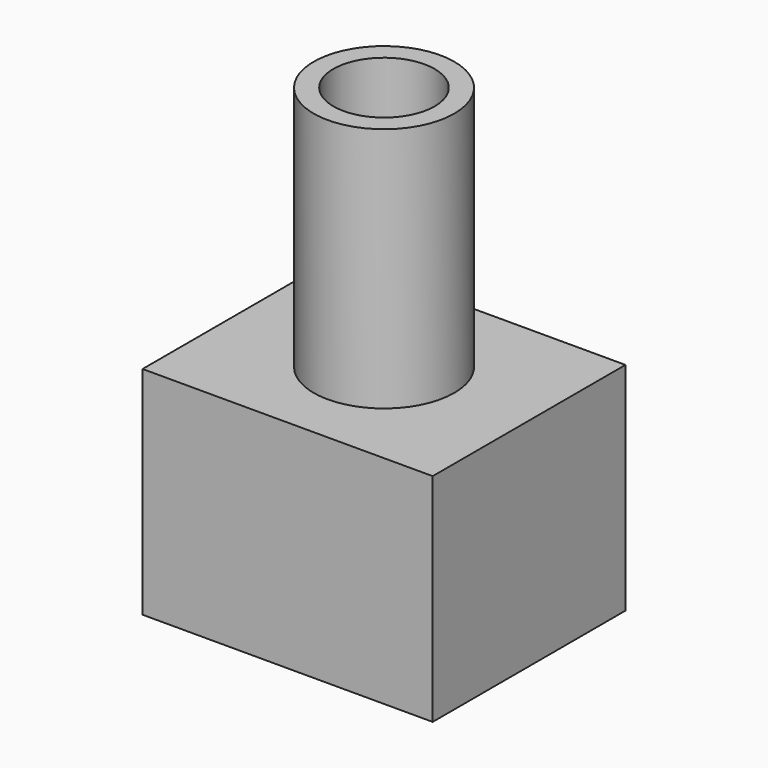
from build123d import *

# Parameters (mm, degrees)
F0_W      = 29.5
F0_H      = 24.5
F0_W_2    = 25.5
F0_H_2    = 20.5
F1_DEPTH  = 20
F2_W      = 29.5
F2_H      = 24.5
F3_DEPTH  = 2
F4_R      = 7.15
F4_R_2    = 5.15
F5_DEPTH  = 25
F5_FACE_R = 5.15
F6_DEPTH  = 25


with BuildPart() as f1:
    # F0 (on Top) → F1 (new body)
    with BuildSketch(Plane.XY):
        Rectangle(F0_W, F0_H)
        Rectangle(F0_W_2, F0_H_2, mode=Mode.SUBTRACT)
    extrude(amount=F1_DEPTH)

    # F2 (on face) → F3 (join)
    with BuildSketch(Plane.XY.offset(20)):
        Rectangle(F2_W, F2_H)
    extrude(amount=F3_DEPTH)

    # F4 (on face) → F5 (join)
    with BuildSketch(Plane.XY.offset(22)):
        Circle(F4_R)
        Circle(F4_R_2, mode=Mode.SUBTRACT)
    extrude(amount=F5_DEPTH)

    # F5_face (on face) → F6 (cut)
    with BuildSketch(Plane.XY.offset(22)):
        Circle(F5_FACE_R)
    extrude(amount=-F6_DEPTH, mode=Mode.SUBTRACT)


solid = f1.part
